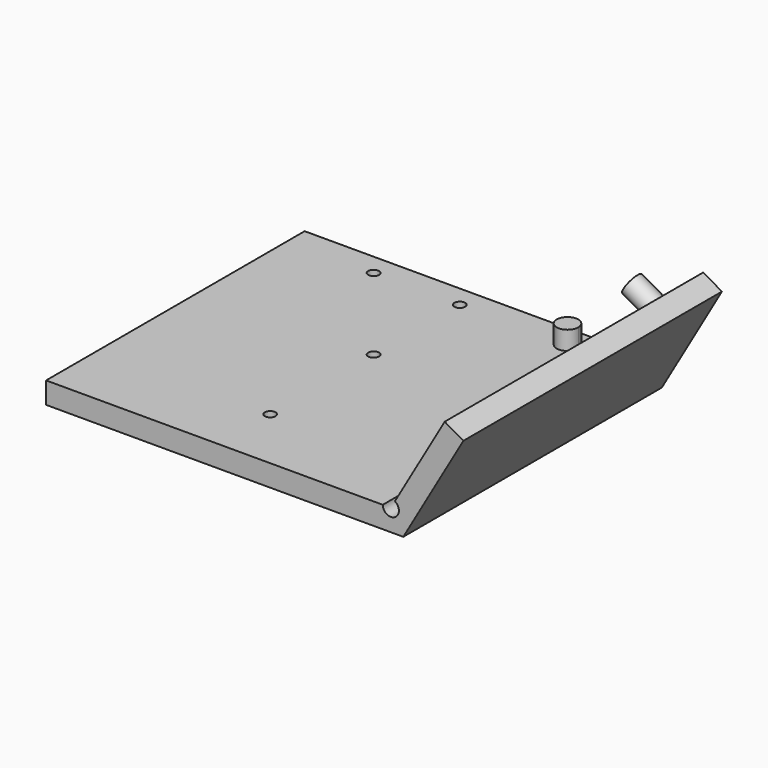
from build123d import *

# Parameters (mm, degrees)
F1_DEPTH = 190.5
F3_D     = 6.35
F5_DEPTH = 10.9982
F7_DEPTH = 21.9964


with BuildPart() as f1:
    # F0 (on Front) → F1 (new body)
    with BuildSketch(Plane.XZ):
        with BuildLine():
            ThreePointArc((100.319202, 10.474446), (100.319202, 2.225554), (93.175452, 6.35))
            Line((93.175452, 6.35), (-93.175452, 6.35))
            Line((-93.175452, 6.35), (-105.2703, 6.35))
            Line((-105.2703, 6.35), (-105.2703, -6.35))
            Line((-105.2703, -6.35), (105.2703, -6.35))
            Line((105.2703, -6.35), (140.6906, 54.999759))
            Line((140.6906, 54.999759), (129.692077, 61.349759))
            Line((129.692077, 61.349759), (100.319202, 10.474446))
        make_face()
    extrude(amount=F1_DEPTH)

    # F3 (through all)
    with Locations(Plane(origin=(0, 0, -6.35), x_dir=(1, 0, 0), z_dir=(0, 0, -1))):
        with Locations((-3.6703, 152.4), (-3.6703, 76.2), (-3.6703, 12.7), (-54.4703, 12.7)):
            Hole(F3_D / 2)

    # F4 (on face) → F5 (join)
    with BuildSketch(Plane.XY.offset(6.35)):
        with BuildLine():
            ThreePointArc((59.8297, -6.35), (55.339572, -17.190128), (66.1797, -12.7))
            ThreePointArc((66.1797, -12.7), (64.319828, -8.209872), (59.8297, -6.35))
        make_face()
    extrude(amount=F5_DEPTH)

    # F6 (on face) → F7 (join)
    with BuildSketch(Plane(origin=(70.703833, 0, -40.820877), x_dir=(0, -1, 0), z_dir=(-0.866025, 0, 0.5))):
        with BuildLine():
            ThreePointArc((6.35, 92.576489), (12.7, 86.226489), (19.05, 92.576489))
            ThreePointArc((19.05, 92.576489), (12.7, 98.926489), (6.35, 92.576489))
        make_face()
    extrude(amount=F7_DEPTH)


solid = f1.part
